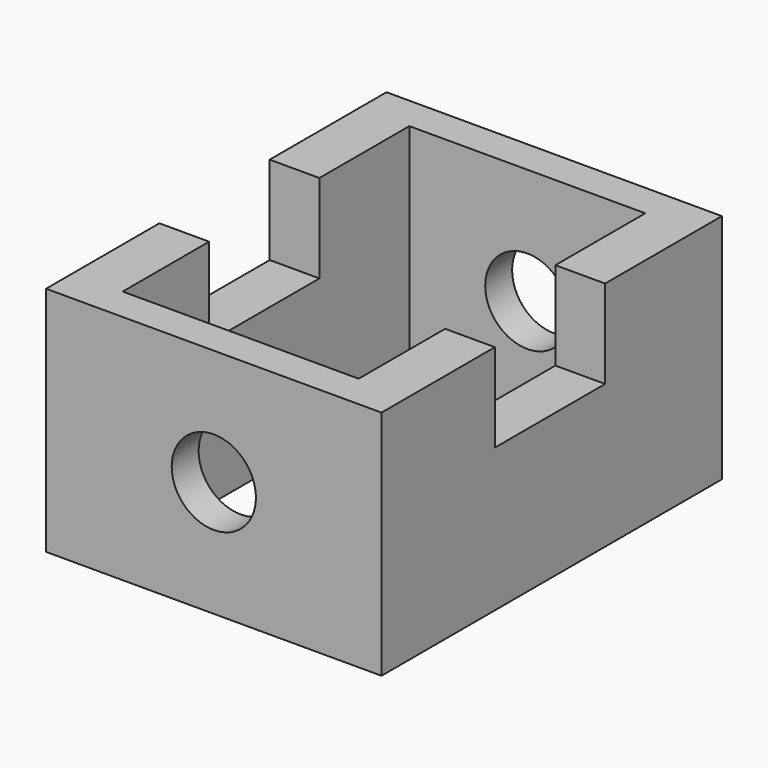
from build123d import *

# Parameters (mm, degrees)
F0_W     = 87.5153616071
F0_H     = 111.0227331519
F1_DEPTH = 60.452
F2_W     = 61.5649223328
F2_H     = 93.4719592333
F3_DEPTH = 25.4
F4_DEPTH = 25.4
F5_DEPTH = 25.4
F6_R     = 10.9826729048
F7_DEPTH = 111.0237331519
F8_W     = 35.9690990299
F8_H     = 23.0667970557
F9_DEPTH = 87.5163616071


with BuildPart() as f1:
    # F0 (on Top) → F1 (new body)
    with BuildSketch(Plane.XY):
        Rectangle(F0_W, F0_H)
    extrude(amount=F1_DEPTH)

    # F2 (on face) → F3 (cut)
    with BuildSketch(Plane.XY.offset(60.452)):
        Rectangle(F2_W, F2_H)
    extrude(amount=-F3_DEPTH, mode=Mode.SUBTRACT)

    # F4 (cut): a face of the model
    f4_faces = [f1.faces().sort_by_distance(p)[0] for p in [
        (0, 0, 35.052),
    ]]
    extrude(f4_faces, amount=-F4_DEPTH, mode=Mode.SUBTRACT)

    # F5 (cut): a face of the model
    f5_faces = [f1.faces().sort_by_distance(p)[0] for p in [
        (0, 0, 9.652),
    ]]
    extrude(f5_faces, amount=-F5_DEPTH, mode=Mode.SUBTRACT)

    # F6 (on face) → F7 (cut, through all)
    with BuildSketch(Plane(origin=(0, 55.511366576, 0), x_dir=(-1, 0, 0), z_dir=(0, 1, 0))):
        with Locations((0, 30.2436631173)):
            Circle(F6_R)
    extrude(amount=-F7_DEPTH, mode=Mode.SUBTRACT)

    # F8 (on face) → F9 (cut, through all)
    with BuildSketch(Plane(origin=(-43.7576808035, 0, 0), x_dir=(0, -1, 0), z_dir=(-1, 0, 0))):
        with Locations((0.5664424971, 48.9186014721)):
            Rectangle(F8_W, F8_H)
    extrude(amount=-F9_DEPTH, mode=Mode.SUBTRACT)


solid = f1.part
